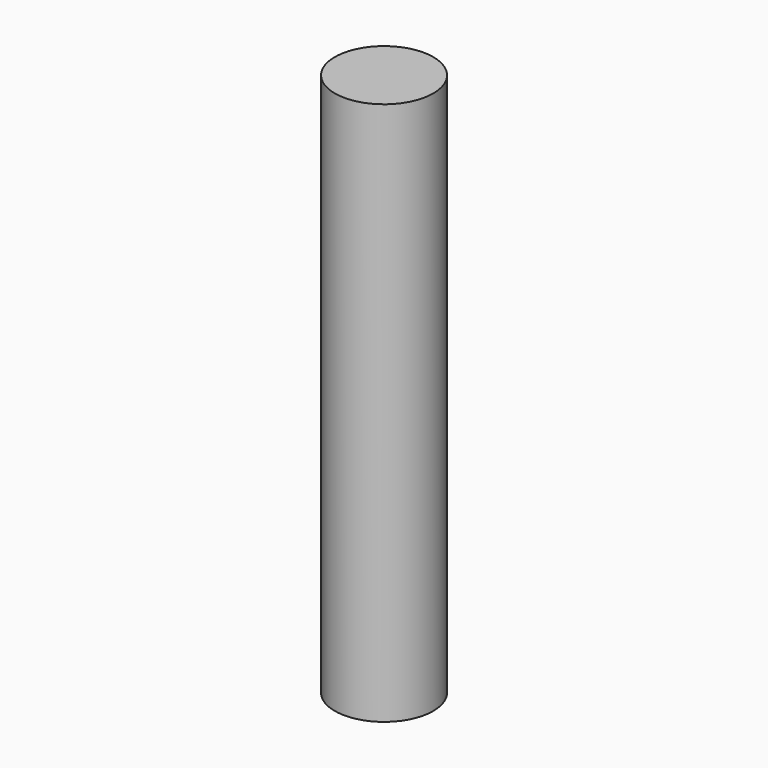
from build123d import *

# Parameters (mm, degrees)
CYLINDER_R     = 12.5
CYLINDER_DEPTH = 138


with BuildPart() as part:
    # Cylinder → Cylinder (new body)
    with BuildSketch(Plane.XY):
        Circle(CYLINDER_R)
    extrude(amount=CYLINDER_DEPTH)


solid = part.part
